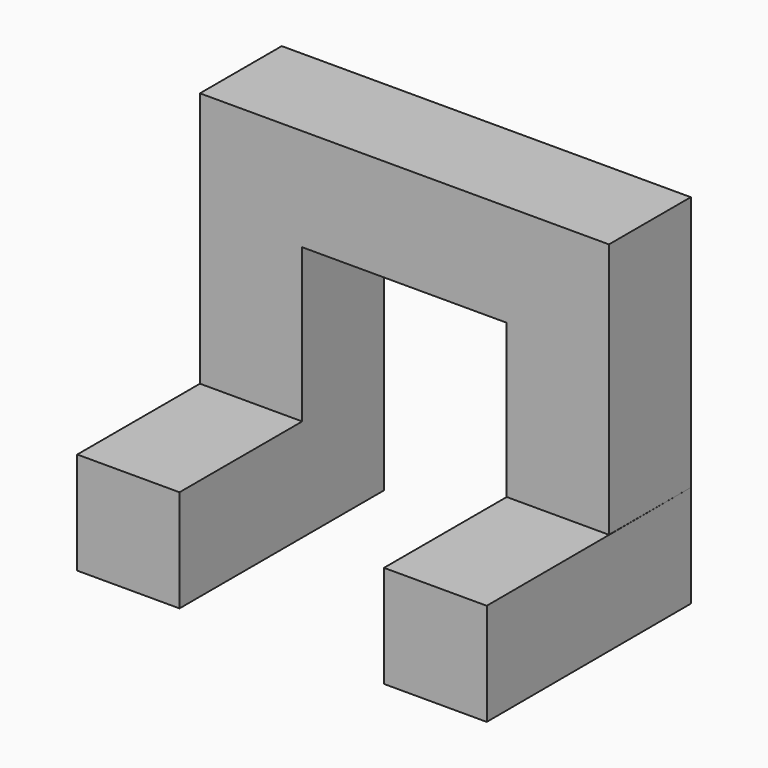
from build123d import *

# Parameters (mm, degrees)
F1_DEPTH = 50.8
F2_W     = 50.8
F2_H     = 127
F3_DEPTH = 50.8
F5_DEPTH = 50.8


with BuildPart() as f1:
    # F0 (on Front) → F1 (new body)
    with BuildSketch(Plane.XZ):
        Polygon((-98.19336, 70.319961), (-98.19336, -56.680039), (-47.39336, -56.680039), (-47.39336, 19.519961), (54.20664, 19.519961), (54.20664, -56.680039), (105.00664, -56.680039), (105.00664, 70.319961), align=None)
    extrude(amount=F1_DEPTH)

    # F2 (on face) → F3 (join)
    with BuildSketch(Plane(origin=(0, 0, -56.680039), x_dir=(1, 0, 0), z_dir=(0, 0, -1))):
        with Locations((-72.79336, 63.5)):
            Rectangle(F2_W, F2_H)
    extrude(amount=F3_DEPTH)

    # F4 (on face) → F5 (join)
    with BuildSketch(Plane(origin=(0, 0, -56.680039), x_dir=(1, 0, 0), z_dir=(0, 0, -1))):
        Polygon((54.20664, 126.999759), (54.20664, 0), (105.00664, 0), (105.254231, 126.999759), align=None)
    extrude(amount=F5_DEPTH)


solid = f1.part
